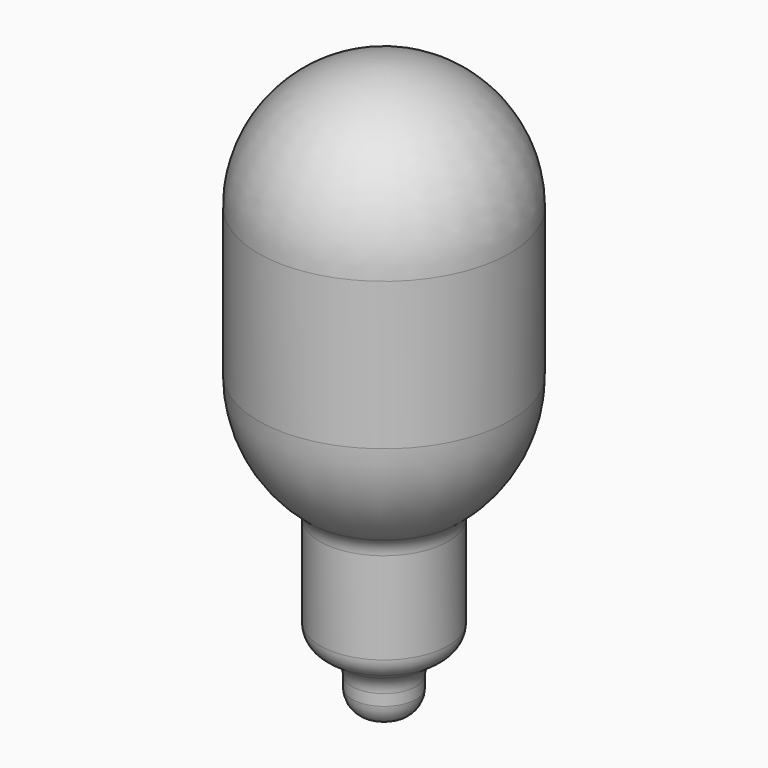
from build123d import *


with BuildPart() as f1:
    # F0 (on Front) → F1 (revolve)
    with BuildSketch(Plane.XZ):
        with BuildLine():
            Line((0, -9.75), (0, -2.75))
            Line((0, -2.75), (0, 2.75))
            ThreePointArc((0, 2.75), (-1.944544, 1.944544), (-2.75, 0))
            Line((-2.75, 0), (-2.75, -3.224587))
            ThreePointArc((-2.75, -3.224587), (-2.459809, -4.511807), (-1.645377, -5.55))
            Line((-1.645377, -5.55), (-1.584104, -5.599942))
            ThreePointArc((-1.584104, -5.599942), (-1.448365, -5.772975), (-1.4, -5.987511))
            Line((-1.4, -5.987511), (-1.4, -7.992691))
            ThreePointArc((-1.4, -7.992691), (-1.344584, -8.221482), (-1.190619, -8.399558))
            Line((-1.190619, -8.399558), (-0.909381, -8.600442))
            ThreePointArc((-0.909381, -8.600442), (-0.755416, -8.778518), (-0.7, -9.007309))
            Line((-0.7, -9.007309), (-0.7, -9.25))
            ThreePointArc((-0.7, -9.25), (-0.553553, -9.603553), (-0.2, -9.75))
            Line((-0.2, -9.75), (0, -9.75))
        make_face()
    revolve(axis=Axis((0, 0, -3.5), (0, 0, 1)))


solid = f1.part
